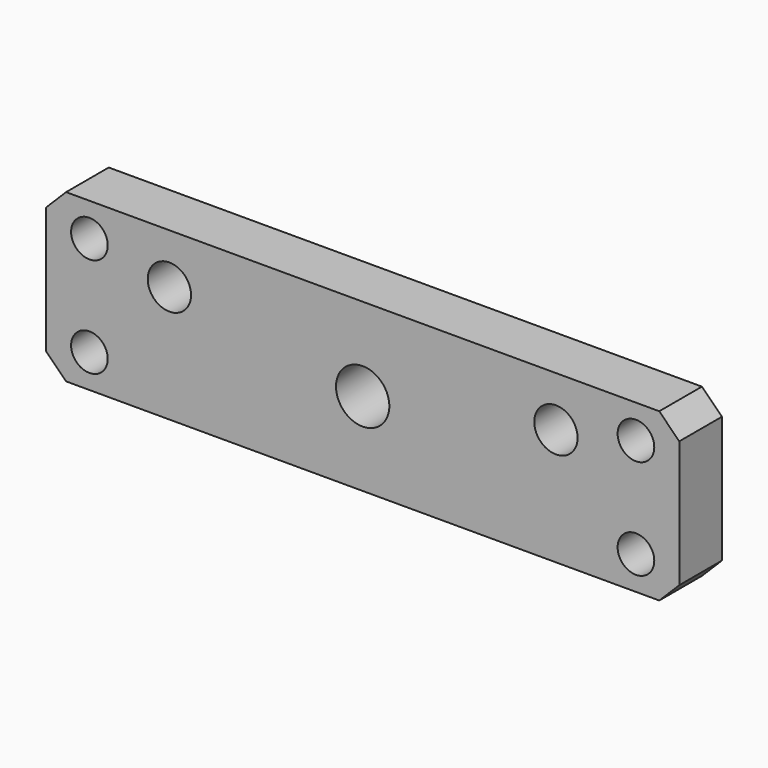
from build123d import *

# Parameters (mm, degrees)
F0_W     = 95
F0_H     = 25
F0_R     = 2.75
F0_R_2   = 3.25
F0_R_3   = 4
F1_DEPTH = 8
F2_D     = 8
F3_SIZE  = 3


with BuildPart() as f1:
    # F0 (on Front) → F1 (new body)
    with BuildSketch(Plane.XZ):
        with Locations((47.5, 12.5)):
            Rectangle(F0_W, F0_H)
        with Locations((6.5, 5)):
            Circle(F0_R, mode=Mode.SUBTRACT)
        with Locations((88.5, 5)):
            Circle(F0_R, mode=Mode.SUBTRACT)
        with Locations((18.5, 17.5)):
            Circle(F0_R_2, mode=Mode.SUBTRACT)
        with Locations((6.5, 20)):
            Circle(F0_R, mode=Mode.SUBTRACT)
        with Locations((47.5, 12.5)):
            Circle(F0_R_3, mode=Mode.SUBTRACT)
        with Locations((76.5, 17.5)):
            Circle(F0_R_2, mode=Mode.SUBTRACT)
        with Locations((88.5, 20)):
            Circle(F0_R, mode=Mode.SUBTRACT)
        with Locations((47.5, 12.5)):
            Circle(F0_R_3)
    extrude(amount=F1_DEPTH)

    # F2 (through all)
    with Locations(Plane(origin=(0, 0, 0), x_dir=(1, 0, 0), z_dir=(0, 1, 0))):
        with Locations((47.5, -12.5)):
            Hole(F2_D / 2)

    # F3
    f3_edges = [f1.edges().sort_by_distance(p)[0] for p in [
        (95, -4, 25),
        (95, -4, 0),
        (0, -4, 25),
        (0, -4, 0),
    ]]
    chamfer(f3_edges, length=F3_SIZE)


solid = f1.part
